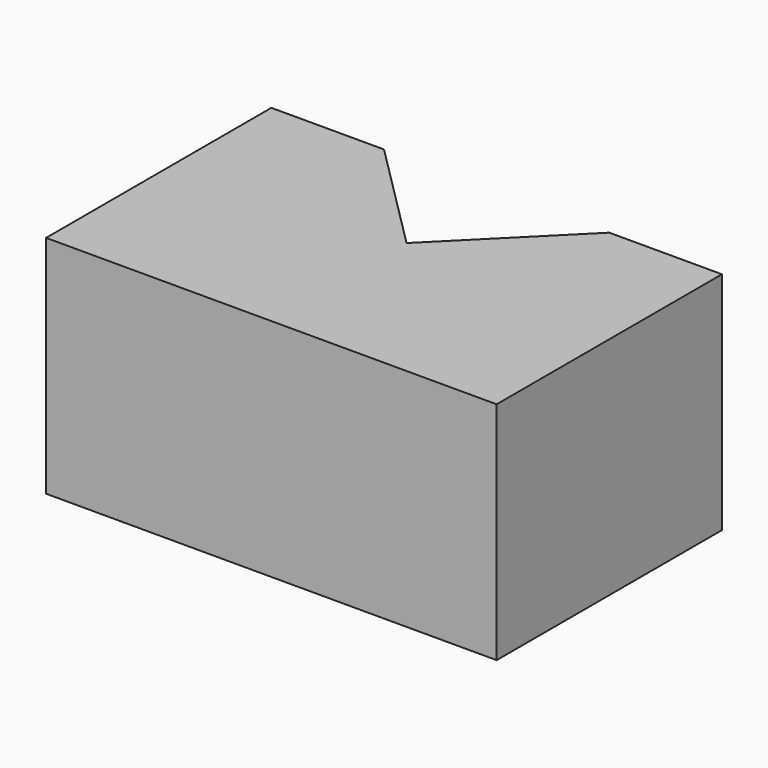
from build123d import *

# Parameters (mm, degrees)
F0_W     = 50.8
F0_H     = 6.35
F1_DEPTH = 25.4
F3_DEPTH = 25.4
F5_DEPTH = 25.4
F7_DEPTH = 25.4


with BuildPart() as f1:
    # F0 (on Top) → F1 (new body)
    with BuildSketch(Plane.XY):
        with Locations((59.120102, -48.131117)):
            Rectangle(F0_W, F0_H)
    extrude(amount=F1_DEPTH)

    # F2 (on face) → F3 (join)
    with BuildSketch(Plane.XY.offset(25.4)):
        Polygon((59.120102, -44.956117), (84.520102, -44.956117), (84.520102, -19.556117), align=None)
    extrude(amount=-F3_DEPTH)

    # F4 (on face) → F5 (join)
    with BuildSketch(Plane.XY.offset(25.4)):
        Polygon((33.720102, -19.556117), (33.720102, -44.956117), (59.120102, -44.956117), align=None)
    extrude(amount=-F5_DEPTH)

    # F6 (on face) → F7 (join)
    with BuildSketch(Plane(origin=(0, 0, 0), x_dir=(1, 0, 0), z_dir=(0, 0, -1))):
        Polygon((71.820102, 19.556117), (84.520102, 19.556117), (59.120102, 44.956117), (33.720102, 19.556117), (46.420102, 19.556117), (59.120102, 32.252281), align=None)
    extrude(amount=-F7_DEPTH)


solid = f1.part
